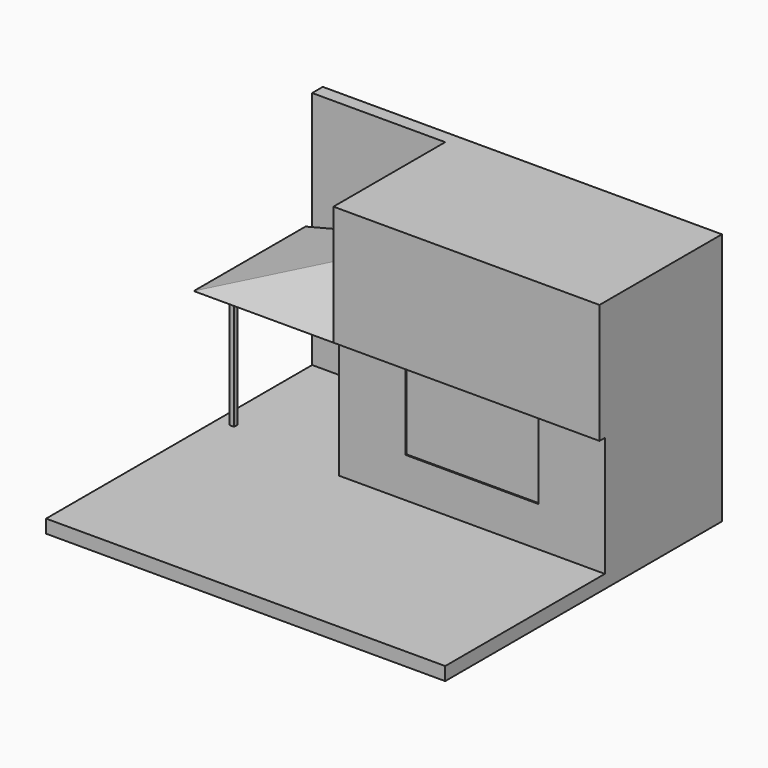
from build123d import *

# Parameters (mm, degrees)
F0_W      = 762
F0_H      = 660.4
F1_DEPTH  = 25.4
F2_W      = 508
F2_H      = 279.4
F3_DEPTH  = 228.6
F4_W      = 254
F4_H      = 152.4
F5_DEPTH  = 2.54
F6_W      = 254
F6_H      = 228.6
F7_DEPTH  = 25.4
F8_W      = 76.2
F8_H      = 152.4
F8_H_2    = 177.8
F9_DEPTH  = 2.54
F11_W     = 152.4
F11_H     = 152.4
F12_DEPTH = 2.54
F13_W     = 508
F13_H     = 292.1
F14_DEPTH = 228.6
F16_W     = 254
F16_H     = 25.4
F17_DEPTH = 228.6
F18_DEPTH = 266.7
F20_DEPTH = 266.701
F21_W     = 8.382
F21_H     = 8.382
F22_DEPTH = 228.6


with BuildPart() as f1:
    # F0 (on Top) → F1 (new body)
    with BuildSketch(Plane.XY):
        Rectangle(F0_W, F0_H)
    extrude(amount=-F1_DEPTH)

    # F2 (on face) → F3 (join)
    with BuildSketch(Plane.XY):
        with Locations((127, 190.5)):
            Rectangle(F2_W, F2_H)
    extrude(amount=F3_DEPTH)

    # F4 (on face) → F5 (cut)
    with BuildSketch(Plane.XZ.offset(-50.8)):
        with Locations((127, 152.4)):
            Rectangle(F4_W, F4_H)
    extrude(amount=-F5_DEPTH, mode=Mode.SUBTRACT)

    # F8 (on face) → F9 (cut)
    with BuildSketch(Plane(origin=(-127, 0, 0), x_dir=(0, -1, 0), z_dir=(-1, 0, 0))):
        with Locations((-127, 152.4)):
            Rectangle(F8_W, F8_H)
        with Locations((-254, 88.9)):
            Rectangle(F8_W, F8_H_2)
    extrude(amount=-F9_DEPTH, mode=Mode.SUBTRACT)


with BuildPart() as f7:
    # F6 (on face) → F7 (new body)
    with BuildSketch(Plane(origin=(0, 330.2, 0), x_dir=(-1, 0, 0), z_dir=(0, 1, 0))):
        with Locations((254, 114.3)):
            Rectangle(F6_W, F6_H)
    extrude(amount=-F7_DEPTH)

    # F10: union F1
    add(f1.part)

    # F11 (on face) → F12 (cut)
    with BuildSketch(Plane.XZ.offset(-304.8)):
        with Locations((-254, 152.4)):
            Rectangle(F11_W, F11_H)
    extrude(amount=-F12_DEPTH, mode=Mode.SUBTRACT)

    # F13 (on face) → F14 (join)
    with BuildSketch(Plane.XY.offset(228.6)):
        with Locations((127, 184.15)):
            Rectangle(F13_W, F13_H)
    extrude(amount=F14_DEPTH)

    # F16 (on face) → F17 (join)
    with BuildSketch(Plane.XY.offset(228.6)):
        with Locations((-254, 317.5)):
            Rectangle(F16_W, F16_H)
    extrude(amount=F17_DEPTH)

    # F15 (on face) → F18 (join)
    with BuildSketch(Plane(origin=(-127, 0, 0), x_dir=(0, -1, 0), z_dir=(-1, 0, 0))):
        Polygon((-304.8, 295.9728837013), (-304.8, 228.6), (-38.1, 228.6), align=None)
    extrude(amount=F18_DEPTH)

    # F19 (on face) → F20 (cut, through all)
    with BuildSketch(Plane(origin=(0, 304.8, 0), x_dir=(-1, 0, 0), z_dir=(0, 1, 0))):
        Polygon((127, 295.9728837013), (393.7, 228.6), (393.7, 295.9728837013), align=None)
    extrude(amount=-F20_DEPTH, mode=Mode.SUBTRACT)

    # F21 (on face) → F22 (join)
    with BuildSketch(Plane(origin=(0, 0, 228.6), x_dir=(1, 0, 0), z_dir=(0, 0, -1))):
        with Locations((-351.409, -80.391)):
            Rectangle(F21_W, F21_H)
    extrude(amount=F22_DEPTH)


solid = f7.part
